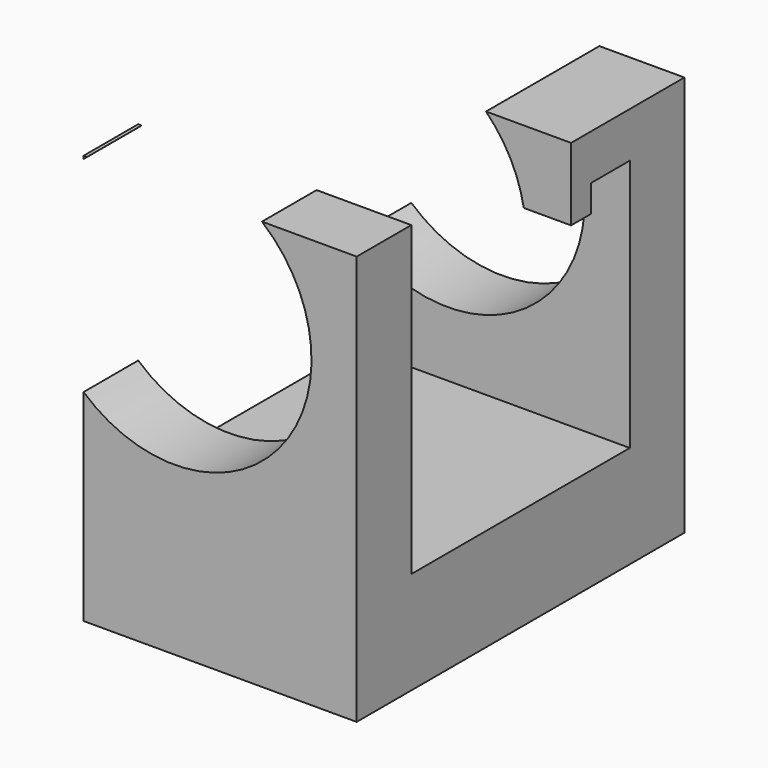
from build123d import *

# Parameters (mm, degrees)
F1_DEPTH = 50.8
F4_DEPTH = 25.4
F3_R     = 25.489353
F5_DEPTH = 76.201


with BuildPart() as f1:
    # F0 (on Right) → F1 (new body)
    with BuildSketch(Plane.YZ):
        Polygon((0, 76.2), (0, 0), (76.2, 0), (76.2, 74.554215), (63.5, 74.554215), (63.5, 19.05), (12.7, 19.05), (12.7, 76.2), align=None)
    extrude(amount=F1_DEPTH)

    # F2 (on face) → F4 (join)
    with BuildSketch(Plane.YZ.offset(50.8)):
        Polygon((63.5, 66.099487), (63.5, 74.554215), (49.849384, 74.554215), (49.849384, 61.041892), (54.4472, 61.041892), (54.4472, 66.099487), align=None)
    extrude(amount=-F4_DEPTH)

    # F3 (on face) → F5 (cut, through all)
    with BuildSketch(Plane.XZ):
        with Locations((16.908981, 56.580197)):
            Circle(F3_R)
    extrude(amount=-F5_DEPTH, mode=Mode.SUBTRACT)


solid = f1.part
